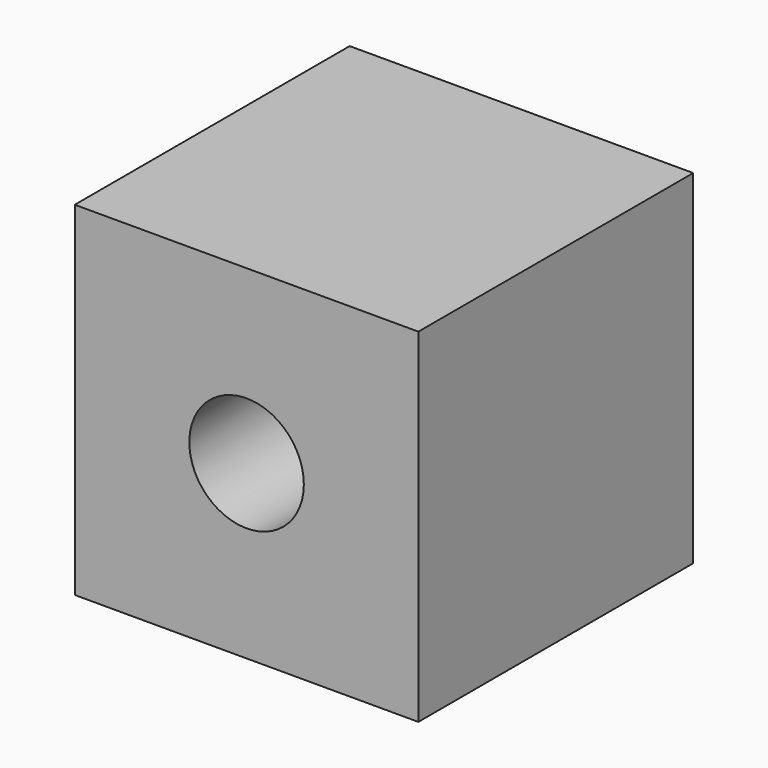
from build123d import *

# Parameters (mm, degrees)
F0_W     = 152.4
F0_H     = 152.4
F1_DEPTH = 152.4
F2_R     = 25.4
F3_DEPTH = 152.4


with BuildPart() as f1:
    # F0 (on Top) → F1 (new body)
    with BuildSketch(Plane.XY):
        Rectangle(F0_W, F0_H)
    extrude(amount=F1_DEPTH)

    # F2 (on face) → F3 (cut)
    with BuildSketch(Plane.XZ.offset(76.2)):
        with Locations((0, 76.2)):
            Circle(F2_R)
    extrude(amount=-F3_DEPTH, mode=Mode.SUBTRACT)


solid = f1.part
